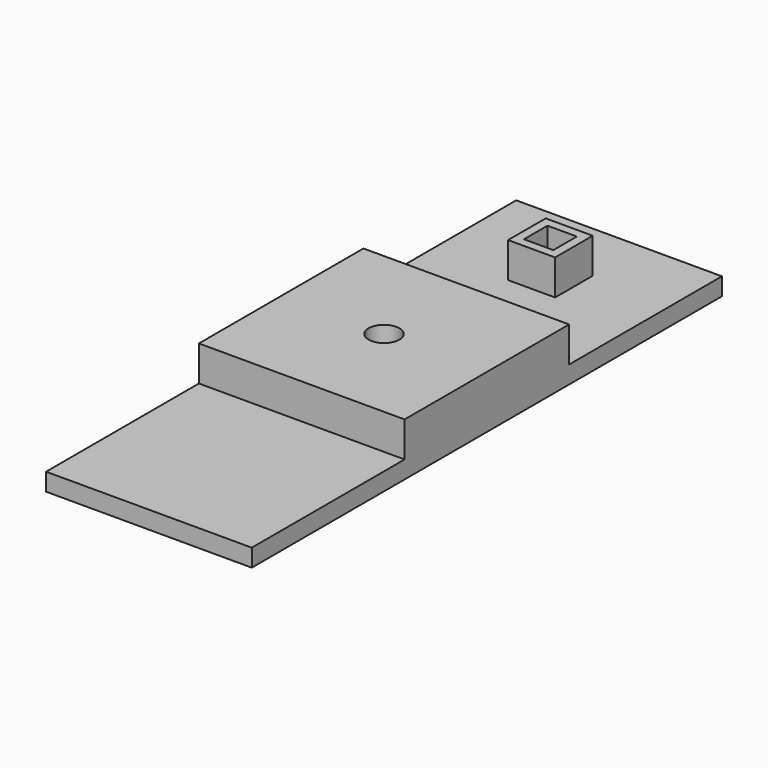
from build123d import *

# Parameters (mm, degrees)
F0_W     = 35
F0_H     = 100
F1_DEPTH = 3
F2_W     = 35
F2_H     = 35
F3_DEPTH = 6
F4_R     = 2.625
F5_DEPTH = 4
F6_W     = 8
F6_H     = 8
F6_W_2   = 5
F6_H_2   = 5
F7_DEPTH = 6


with BuildPart() as f1:
    # F0 (on Top) → F1 (new body)
    with BuildSketch(Plane.XY):
        Rectangle(F0_W, F0_H)
    extrude(amount=F1_DEPTH)

    # F2 (on face) → F3 (join)
    with BuildSketch(Plane.XY.offset(3)):
        Rectangle(F2_W, F2_H)
    extrude(amount=F3_DEPTH)

    # F4 (on face) → F5 (cut)
    with BuildSketch(Plane.XY.offset(9)):
        Circle(F4_R)
    extrude(amount=-F5_DEPTH, mode=Mode.SUBTRACT)

    # F6 (on face) → F7 (join)
    with BuildSketch(Plane.XY.offset(3)):
        with Locations((0, 35.393093)):
            Rectangle(F6_W, F6_H)
        with Locations((0, 35.393093)):
            Rectangle(F6_W_2, F6_H_2, mode=Mode.SUBTRACT)
    extrude(amount=F7_DEPTH)


solid = f1.part
